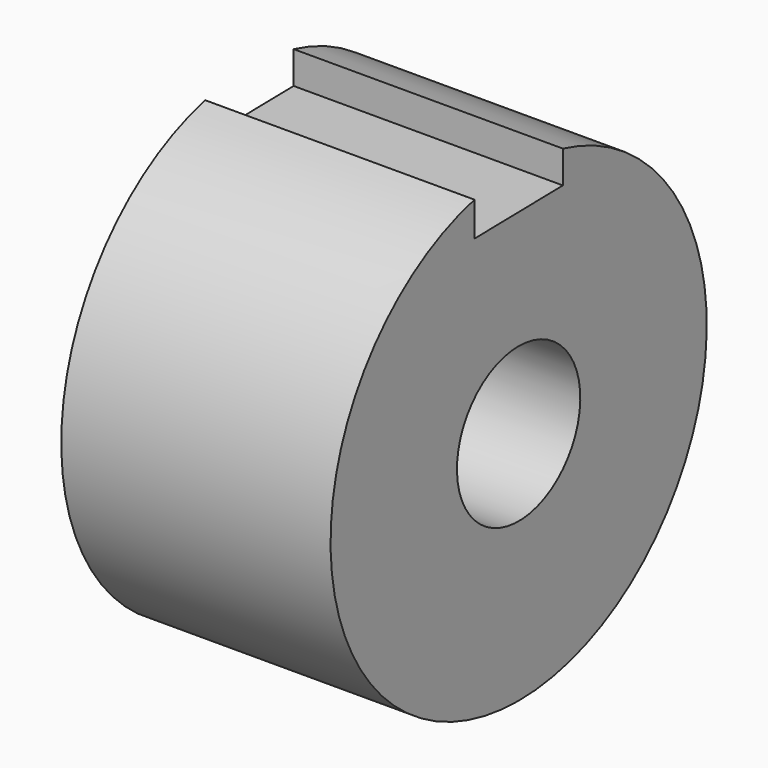
from build123d import *

# Parameters (mm, degrees)
F0_W     = 61.8572123349
F0_H     = 36.3074894994
F3_DEPTH = 61.8582123349


with BuildPart() as f1:
    # F0 (on Front) → F1 (revolve)
    with BuildSketch(Plane.XZ):
        with Locations((30.9286061674, 35.8592541888)):
            Rectangle(F0_W, F0_H)
    revolve(axis=Axis((-41.9105030596, 0, 0), (1, 0, 0)))

    # F2 (on face) → F3 (cut, through all)
    with BuildSketch(Plane.YZ.offset(61.8572123349)):
        with BuildLine():
            ThreePointArc((12.7, 52.4987052634), (0, 54.0129989386), (-12.7, 52.4987052634))
            Line((-12.7, 52.4987052634), (-12.7, 44.5999402988))
            Line((-12.7, 44.5999402988), (12.7, 45.0481884181))
            Line((12.7, 45.0481884181), (12.7, 52.4987052634))
        make_face()
    extrude(amount=-F3_DEPTH, mode=Mode.SUBTRACT)


solid = f1.part
